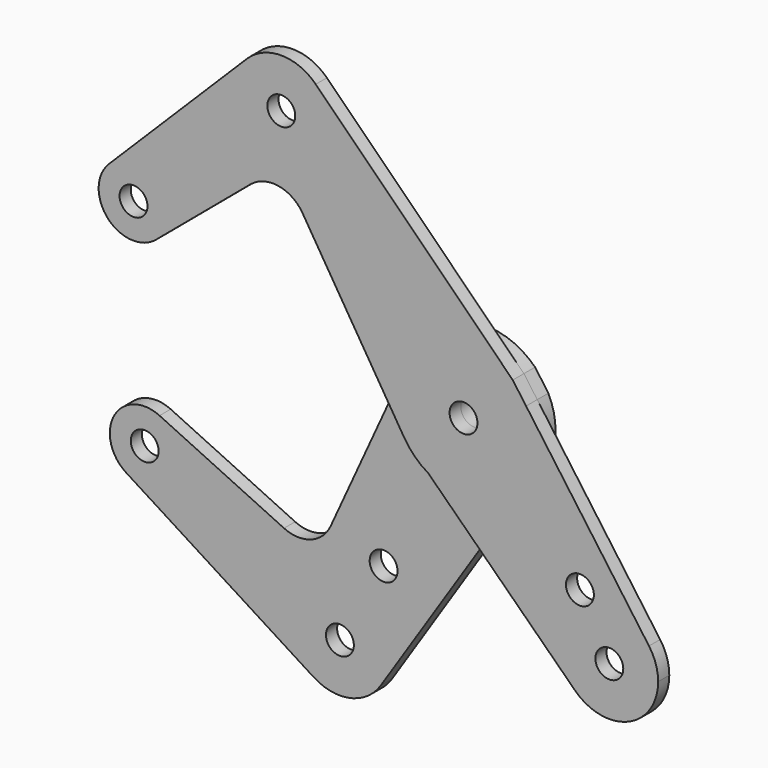
from build123d import *

# Parameters (mm, degrees)
F0_R     = 3.9751
F0_R_2   = 3.175
F1_DEPTH = 3.175
F2_DEPTH = 3.175


with BuildPart() as f1:
    # F0 (on Front) → F1 (new body)
    with BuildSketch(Plane.XZ):
        with BuildLine():
            ThreePointArc((-14.4427573847, 6.589566308), (-2.8354258051, 15.6197306476), (11.2052030012, 11.2454013135))
            Line((11.2052030012, 11.2454013135), (-33.6497130803, 55.9399770143))
            ThreePointArc((-33.6497130803, 55.9399770143), (-31.2305551467, 52.3299553211), (-30.3808551811, 48.0681960948))
            ThreePointArc((-30.3808551811, 48.0681960948), (-45.7551144074, 37.8053960604), (-49.336997282, 55.9399770143))
            Line((-49.336997282, 55.9399770143), (-80.7436939481, 24.6455481248))
            ThreePointArc((-80.7436939481, 24.6455481248), (-72.0969787145, 26.3534189212), (-67.2035924475, 19.022847468))
            ThreePointArc((-67.2035924475, 19.022847468), (-67.945184229, 15.6728010265), (-70.0313873855, 12.9487367982))
            Line((-70.0313873855, 12.9487367982), (-48.5368082432, 31.0305541734))
            ThreePointArc((-48.5368082432, 31.0305541734), (-42.1602348474, 32.7966531084), (-36.6555025797, 29.1254521629))
            Line((-36.6555025797, 29.1254521629), (-17.9638112387, -1.1277437812))
            Line((-17.9638112387, -1.1277437812), (-14.4427573847, 6.589566308))
        make_face()
        with BuildLine():
            Line((14.2405382677, 7.0158887425), (11.2052030012, 11.2454013135))
            ThreePointArc((11.2052030012, 11.2454013135), (-2.8354258051, 15.6197306476), (-14.4427573847, 6.589566308))
            ThreePointArc((-14.4427573847, 6.589566308), (-15.843809219, -0.9946529208), (-13.50524176, -8.3441039066))
            Line((-13.50524176, -8.3441039066), (-8.0349928898, -13.6914029325))
            ThreePointArc((-8.0349928898, -13.6914029325), (3.6371425128, -15.4527285404), (13.2982791082, -8.670144045))
            ThreePointArc((13.2982791082, -8.670144045), (15.2171910326, -4.5224685824), (15.875, 0))
            ThreePointArc((15.875, 0), (15.4609859, 3.6018800647), (14.2405382677, 7.0158887425))
        make_face()
        Circle(F0_R, mode=Mode.SUBTRACT)
        with BuildLine():
            ThreePointArc((-30.3808551811, 48.0681960948), (-31.2305551467, 52.3299553211), (-33.6497130803, 55.9399770143))
            ThreePointArc((-33.6497130803, 55.9399770143), (-41.4933551811, 59.1806960948), (-49.336997282, 55.9399770143))
            ThreePointArc((-49.336997282, 55.9399770143), (-45.7551144074, 37.8053960604), (-30.3808551811, 48.0681960948))
        make_face()
        with Locations((-41.4933551811, 48.0681960948)):
            Circle(F0_R_2, mode=Mode.SUBTRACT)
        with BuildLine():
            ThreePointArc((-67.2035924475, 19.022847468), (-72.0969787145, 26.3534189212), (-80.7436939481, 24.6455481248))
            ThreePointArc((-80.7436939481, 24.6455481248), (-80.9946883959, 13.6619407609), (-70.0313873855, 12.9487367982))
            ThreePointArc((-70.0313873855, 12.9487367982), (-67.945184229, 15.6728010265), (-67.2035924475, 19.022847468))
        make_face()
        with Locations((-75.1410924475, 19.022847468)):
            Circle(F0_R_2, mode=Mode.SUBTRACT)
        Circle(F0_R)
        Circle(F0_R_2, mode=Mode.SUBTRACT)
        with BuildLine():
            ThreePointArc((-13.50524176, -8.3441039066), (-15.843809219, -0.9946529208), (-14.4427573847, 6.589566308))
            Line((-14.4427573847, 6.589566308), (-17.9638112387, -1.1277437812))
            Line((-17.9638112387, -1.1277437812), (-13.50524176, -8.3441039066))
        make_face()
        with BuildLine():
            ThreePointArc((13.2982791082, -8.670144045), (3.6371425128, -15.4527285404), (-8.0349928898, -13.6914029325))
            Line((-8.0349928898, -13.6914029325), (2.994937632, -24.4734236659))
            Line((2.994937632, -24.4734236659), (13.2982791082, -8.670144045))
        make_face()
        with BuildLine():
            Line((42.2228832649, -31.9754151966), (14.2405382677, 7.0158887425))
            ThreePointArc((14.2405382677, 7.0158887425), (15.4609859, 3.6018800647), (15.875, 0))
            ThreePointArc((15.875, 0), (15.2171910326, -4.5224685824), (13.2982791082, -8.670144045))
            Line((13.2982791082, -8.670144045), (2.994937632, -24.4734236659))
            Line((2.994937632, -24.4734236659), (25.4267709009, -46.4010768742))
            ThreePointArc((25.4267709009, -46.4010768742), (22.1956165639, -36.8708370147), (27.9842277894, -28.6393237753))
            ThreePointArc((27.9842277894, -28.6393237753), (35.7296725959, -27.6350610557), (42.2228832649, -31.9754151966))
        make_face()
        with BuildLine():
            ThreePointArc((29.670526099, -25.8349713944), (29.2164866708, -27.4711249832), (27.9842277894, -28.6393237753))
            ThreePointArc((27.9842277894, -28.6393237753), (23.7745655271, -24.1988178055), (29.670526099, -25.8349713944))
        make_face(mode=Mode.SUBTRACT)
        with BuildLine():
            ThreePointArc((44.3071841449, -38.4545568759), (43.7732832717, -35.0514852098), (42.2228832649, -31.9754151966))
            ThreePointArc((42.2228832649, -31.9754151966), (35.7296725959, -27.6350610557), (27.9842277894, -28.6393237753))
            ThreePointArc((27.9842277894, -28.6393237753), (22.1956165639, -36.8708370147), (25.4267709009, -46.4010768742))
            ThreePointArc((25.4267709009, -46.4010768742), (37.5055263089, -48.6968367044), (44.3071841449, -38.4545568759))
        make_face()
        with Locations((33.1946841449, -38.4545568759)):
            Circle(F0_R_2, mode=Mode.SUBTRACT)
        with BuildLine():
            Line((-8.0349928898, -13.6914029325), (-13.50524176, -8.3441039066))
            ThreePointArc((-13.50524176, -8.3441039066), (-11.09701892, -11.3521714262), (-8.0349928898, -13.6914029325))
        make_face()
    extrude(amount=F1_DEPTH)


with BuildPart() as f2:
    # F0 (on Front) → F2 (new body)
    with BuildSketch(Plane.XZ):
        with BuildLine():
            ThreePointArc((-8.0349928898, -13.6914029325), (-11.09701892, -11.3521714262), (-13.50524176, -8.3441039066))
            Line((-13.50524176, -8.3441039066), (-17.9638112387, -1.1277437812))
            Line((-17.9638112387, -1.1277437812), (-32.7908689101, -33.6251171539))
            ThreePointArc((-32.7908689101, -33.6251171539), (-37.2884482799, -37.7898812405), (-43.412095928, -37.5170817433))
            Line((-43.412095928, -37.5170817433), (-71.7582109383, -24.1626996834))
            ThreePointArc((-71.7582109383, -24.1626996834), (-68.4382748225, -27.0916255768), (-67.2035924475, -31.343230231))
            ThreePointArc((-67.2035924475, -31.343230231), (-71.3173170081, -38.2989938583), (-79.3944957896, -38.0449066078))
            Line((-79.3944957896, -38.0449066078), (-36.6458571264, -65.1765065738))
            ThreePointArc((-36.6458571264, -65.1765065738), (-36.0443780627, -46.056090568), (-19.5785924475, -55.7941596462))
            ThreePointArc((-19.5785924475, -55.7941596462), (-20.0390587247, -58.9598876539), (-21.3822970718, -61.8632604777))
            Line((-21.3822970718, -61.8632604777), (2.994937632, -24.4734236659))
            Line((2.994937632, -24.4734236659), (-8.0349928898, -13.6914029325))
        make_face()
        with Locations((-20.7383021526, -37.7007153808)):
            Circle(F0_R_2, mode=Mode.SUBTRACT)
        with BuildLine():
            ThreePointArc((13.2982791082, -8.670144045), (3.6371425128, -15.4527285404), (-8.0349928898, -13.6914029325))
            Line((-8.0349928898, -13.6914029325), (2.994937632, -24.4734236659))
            Line((2.994937632, -24.4734236659), (13.2982791082, -8.670144045))
        make_face()
        with BuildLine():
            Line((14.2405382677, 7.0158887425), (11.2052030012, 11.2454013135))
            ThreePointArc((11.2052030012, 11.2454013135), (-2.8354258051, 15.6197306476), (-14.4427573847, 6.589566308))
            ThreePointArc((-14.4427573847, 6.589566308), (-15.843809219, -0.9946529208), (-13.50524176, -8.3441039066))
            Line((-13.50524176, -8.3441039066), (-8.0349928898, -13.6914029325))
            ThreePointArc((-8.0349928898, -13.6914029325), (3.6371425128, -15.4527285404), (13.2982791082, -8.670144045))
            ThreePointArc((13.2982791082, -8.670144045), (15.2171910326, -4.5224685824), (15.875, 0))
            ThreePointArc((15.875, 0), (15.4609859, 3.6018800647), (14.2405382677, 7.0158887425))
        make_face()
        Circle(F0_R, mode=Mode.SUBTRACT)
        with BuildLine():
            ThreePointArc((-36.6458571264, -65.1765065738), (-28.3338100287, -66.6537579743), (-21.3822970718, -61.8632604777))
            ThreePointArc((-21.3822970718, -61.8632604777), (-20.0390587247, -58.9598876539), (-19.5785924475, -55.7941596462))
            ThreePointArc((-19.5785924475, -55.7941596462), (-36.0443780627, -46.056090568), (-36.6458571264, -65.1765065738))
        make_face()
        with Locations((-30.6910924475, -55.7941596462)):
            Circle(F0_R_2, mode=Mode.SUBTRACT)
        with BuildLine():
            ThreePointArc((-67.2035924475, -31.343230231), (-68.4382748225, -27.0916255768), (-71.7582109383, -24.1626996834))
            ThreePointArc((-71.7582109383, -24.1626996834), (-82.0958296344, -27.5175882049), (-79.3944957896, -38.0449066078))
            ThreePointArc((-79.3944957896, -38.0449066078), (-71.3173170081, -38.2989938583), (-67.2035924475, -31.343230231))
        make_face()
        with Locations((-75.1410924475, -31.343230231)):
            Circle(F0_R_2, mode=Mode.SUBTRACT)
        with BuildLine():
            ThreePointArc((-13.50524176, -8.3441039066), (-15.843809219, -0.9946529208), (-14.4427573847, 6.589566308))
            Line((-14.4427573847, 6.589566308), (-17.9638112387, -1.1277437812))
            Line((-17.9638112387, -1.1277437812), (-13.50524176, -8.3441039066))
        make_face()
        with BuildLine():
            Line((-8.0349928898, -13.6914029325), (-13.50524176, -8.3441039066))
            ThreePointArc((-13.50524176, -8.3441039066), (-11.09701892, -11.3521714262), (-8.0349928898, -13.6914029325))
        make_face()
        Circle(F0_R)
        Circle(F0_R_2, mode=Mode.SUBTRACT)
    extrude(amount=-F2_DEPTH)


solid = Compound([f1.part, f2.part])
